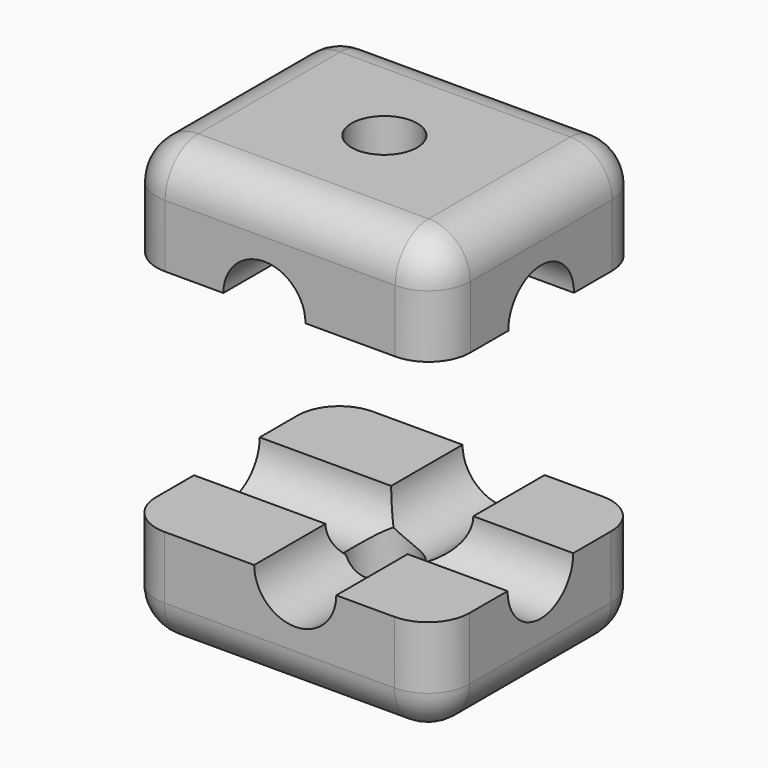
from build123d import *

# Parameters (mm, degrees)
F0_W      = 38.1865911186
F0_H      = 31.7211365327
F1_DEPTH  = 25.4
F2_R      = 4
F3_DEPTH  = 25.401
F4_R      = 5.08
F5_R      = 5
F6_DEPTH  = 38.1875911186
F7_R      = 5
F8_DEPTH  = 31.7221365327
F10_DEPTH = 38.1875912186
F17_ANGLE = 180


with BuildPart() as f1:
    # F0 (on Top) → F1 (new body)
    with BuildSketch(Plane.XY):
        with Locations((1.9194316119, 1.5153405257)):
            Rectangle(F0_W, F0_H)
    extrude(amount=F1_DEPTH)

    # F2 (on face) → F3 (cut, through all)
    with BuildSketch(Plane(origin=(0, 0, 0), x_dir=(1, 0, 0), z_dir=(0, 0, -1))):
        with Locations((1.9194316119, -1.5153405257)):
            Circle(F2_R)
    extrude(amount=-F3_DEPTH, mode=Mode.SUBTRACT)

    # F4
    f4_edges = [f1.edges().sort_by_distance(p)[0] for p in [
        (1.919432, -14.345228, 25.4),
        (21.012727, -14.345228, 12.7),
        (21.012727, 17.375909, 12.7),
        (21.012727, 1.515341, 25.4),
        (-17.173864, 1.515341, 25.4),
        (21.012727, 1.515341, 0),
        (-17.173864, 1.515341, 0),
        (1.919432, -14.345228, 0),
        (1.919432, 17.375909, 25.4),
        (1.919432, 17.375909, 0),
        (-17.173864, -14.345228, 12.7),
        (-17.173864, 17.375909, 12.7),
    ]]
    fillet(f4_edges, radius=F4_R)

    # F5 (on face) → F6 (cut, through all)
    with BuildSketch(Plane(origin=(-17.1738639474, 0, 0), x_dir=(0, -1, 0), z_dir=(-1, 0, 0))):
        with Locations((-1.5153405257, 12.7)):
            Circle(F5_R)
    extrude(amount=-F6_DEPTH, mode=Mode.SUBTRACT)

    # F7 (on face) → F8 (cut, through all)
    with BuildSketch(Plane.XZ.offset(14.3452277407)):
        with Locations((0, 12.7)):
            Circle(F7_R)
    extrude(amount=-F8_DEPTH, mode=Mode.SUBTRACT)

    # F9 (on face) → F10 (cut, through all)
    with BuildSketch(Plane(origin=(-17.1738639474, 0, 0), x_dir=(0, -1, 0), z_dir=(-1, 0, 0))):
        Polygon((24.5413854718, -21.7303987592), (24.5413854718, 12.7), (9.2652277407, 12.7), (9.2652277407, 5.08), (-12.295908792, 5.08), (-12.295908792, 12.7), (-48.5434681177, 12.7), (-48.5434681177, -21.7303987592), align=None)
        with BuildLine():
            Line((9.2652277407, 5.08), (9.2652277407, 12.7))
            Line((9.2652277407, 12.7), (3.4846594743, 12.7))
            ThreePointArc((3.4846594743, 12.7), (-1.5153405257, 7.7), (-6.5153405257, 12.7))
            Line((-6.5153405257, 12.7), (-12.295908792, 12.7))
            Line((-12.295908792, 12.7), (-12.295908792, 5.08))
            Line((-12.295908792, 5.08), (9.2652277407, 5.08))
        make_face()
        with BuildLine():
            Line((9.2652277407, 5.08), (9.2652277407, 12.7))
            Line((9.2652277407, 12.7), (3.4846594743, 12.7))
            ThreePointArc((3.4846594743, 12.7), (-1.5153405257, 7.7), (-6.5153405257, 12.7))
            Line((-6.5153405257, 12.7), (-12.295908792, 12.7))
            Line((-12.295908792, 12.7), (-12.295908792, 5.08))
            Line((-12.295908792, 5.08), (9.2652277407, 5.08))
        make_face()
    extrude(amount=-F10_DEPTH, mode=Mode.SUBTRACT)


with BuildPart() as f11_1:
    # F11: copy of F1
    add(f1.part.moved(Location((101.6, 101.6, 101.6))))


with BuildPart() as f12_1:
    # F12: copy of F11_1
    add(f11_1.part)


with BuildPart() as f14_1:
    # F14: copy of F11_1
    add(f11_1.part)


with BuildPart() as f11_1_1:
    # F15: moved
    add(f11_1.part.moved(Location((-99.06, -104.14, -154.94))))


with BuildPart() as f11_1_2:
    # F17: moved
    add(f11_1_1.part.rotate(Axis((-9.5538639474, -1.0246594743, -27.94), (0, 1, 0)), F17_ANGLE))


with BuildPart() as f11_1_3:
    # F18: moved
    add(f11_1_2.part.moved(Location((25.4, 2.54, 0))))


solid = Compound([f1.part, f11_1_3.part])
